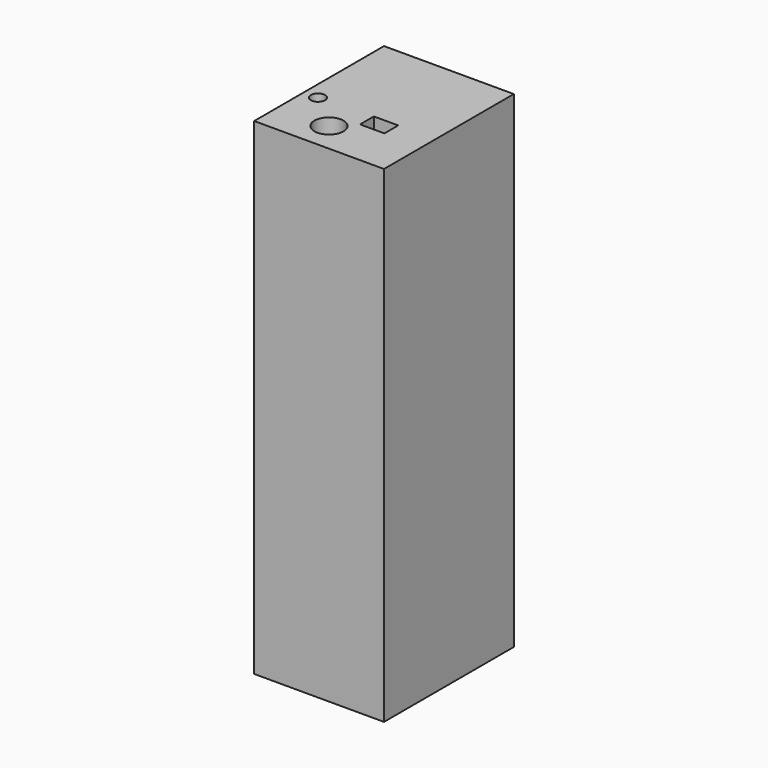
from build123d import *

# Parameters (mm, degrees)
F0_W     = 80
F0_H     = 100
F0_R     = 8.967752
F0_R_2   = 4.373851
F0_W_2   = 15.009044
F0_H_2   = 10.639324
F1_DEPTH = 300


with BuildPart() as f1:
    # F0 (on Top) → F1 (new body)
    with BuildSketch(Plane.XY):
        with Locations((12.26176, 25.776536)):
            Rectangle(F0_W, F0_H)
        with Locations((3.609771, -5.794632)):
            Circle(F0_R, mode=Mode.SUBTRACT)
        with Locations((-18.998794, 13.964114)):
            Circle(F0_R_2, mode=Mode.SUBTRACT)
        with Locations((21.753619, 10.164355)):
            Rectangle(F0_W_2, F0_H_2, mode=Mode.SUBTRACT)
    extrude(amount=F1_DEPTH)


solid = f1.part
